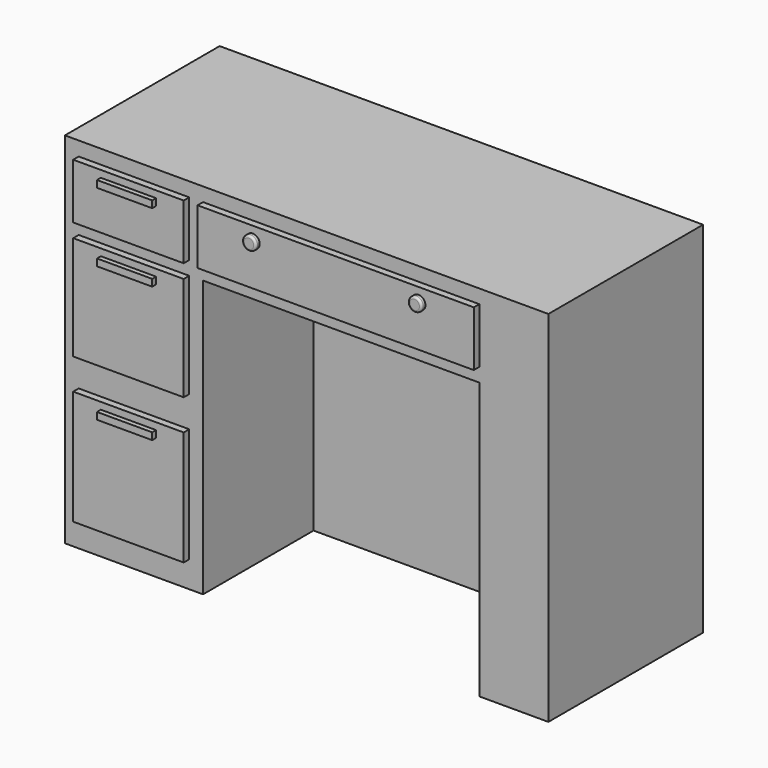
from build123d import *

# Parameters (mm, degrees)
F0_W     = 1066.8
F0_H     = 426.72
F1_DEPTH = 792.48
F2_W     = 609.6
F2_H     = 609.6
F3_DEPTH = 304.8
F4_W     = 609.6
F4_H     = 121.92
F4_W_2   = 243.84
F4_H_2   = 229.870439
F4_H_3   = 252.629858
F5_DEPTH = 15.24
F6_W     = 121.92
F6_H     = 15.24
F6_R     = 15.24
F7_DEPTH = 25.908
F8_R     = 4.572


with BuildPart() as f1:
    # F0 (on Top) → F1 (new body)
    with BuildSketch(Plane.XY):
        with Locations((1.187092, -46.394789)):
            Rectangle(F0_W, F0_H)
    extrude(amount=F1_DEPTH)

    # F2 (on face) → F3 (cut)
    with BuildSketch(Plane.XZ.offset(259.754789)):
        with Locations((77.387092, 304.8)):
            Rectangle(F2_W, F2_H)
    extrude(amount=-F3_DEPTH, mode=Mode.SUBTRACT)

    # F4 (on face) → F5 (join)
    with BuildSketch(Plane.XZ.offset(259.754789)):
        with Locations((77.387092, 701.04)):
            Rectangle(F4_W, F4_H)
        with Locations((-379.812908, 700.366654)):
            Rectangle(F4_W_2, F4_H)
        with Locations((-379.812908, 493.991434)):
            Rectangle(F4_W_2, F4_H_2)
        with Locations((-379.812908, 184.462944)):
            Rectangle(F4_W_2, F4_H_3)
    extrude(amount=F5_DEPTH)

    # F6 (on face) → F7 (join)
    with BuildSketch(Plane.XZ.offset(259.754789)):
        with Locations((-379.812908, 738.466654)):
            Rectangle(F6_W, F6_H)
        with Locations((-379.812908, 586.066654)):
            Rectangle(F6_W, F6_H)
        with Locations((-379.812908, 287.917873)):
            Rectangle(F6_W, F6_H)
        with Locations((-105.492908, 731.52)):
            Circle(F6_R)
        with Locations((260.267092, 731.52)):
            Circle(F6_R)
    extrude(amount=F7_DEPTH)

    # F8
    f8_edges = [f1.edges().sort_by_distance(p)[0] for p in [
        (-120.732908, -285.662789, 731.52),
        (245.027092, -285.662789, 731.52),
    ]]
    fillet(f8_edges, radius=F8_R)


solid = f1.part
